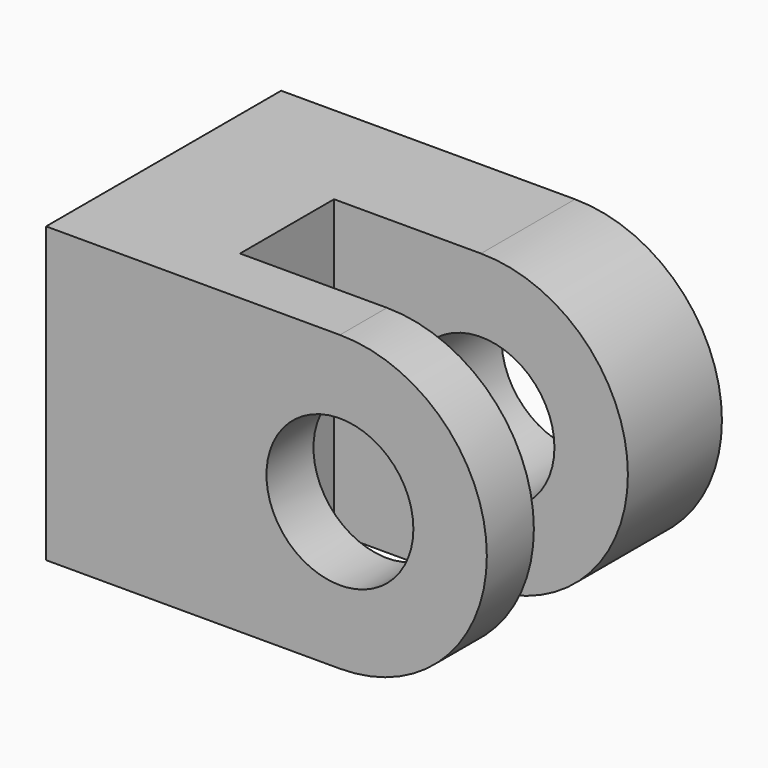
from build123d import *

# Parameters (mm, degrees)
F0_R     = 12.5
F1_DEPTH = 20
F3_R     = 12.5
F4_DEPTH = 10
F5_W     = 25
F5_H     = 50
F6_DEPTH = 20


with BuildPart() as f1:
    # F0 (on Front) → F1 (new body)
    with BuildSketch(Plane.XZ):
        with BuildLine():
            Line((-50, -25), (0, -25))
            ThreePointArc((0, -25), (25, 0), (0, 25))
            Line((0, 25), (-50, 25))
            Line((-50, 25), (-50, -25))
        make_face()
        Circle(F0_R, mode=Mode.SUBTRACT)
    extrude(amount=F1_DEPTH)



with BuildPart() as f4:
    # F3 (on offset) → F4 (new body)
    with BuildSketch(Plane.XZ.offset(40)):
        with BuildLine():
            Line((0, 25), (-50, 25))
            Line((-50, 25), (-50, -25))
            Line((-50, -25), (0, -25))
            ThreePointArc((0, -25), (25, 0), (0, 25))
        make_face()
        Circle(F3_R, mode=Mode.SUBTRACT)
    extrude(amount=F4_DEPTH)


with BuildPart() as f1_1:
    add(f1.part)

    add(f4.part)  # F6 merges F4
    # F5 (on face) → F6 (join, through all)
    with BuildSketch(Plane.XZ.offset(20)):
        with Locations((-37.5, 0)):
            Rectangle(F5_W, F5_H)
    extrude(amount=F6_DEPTH)


solid = f1_1.part
